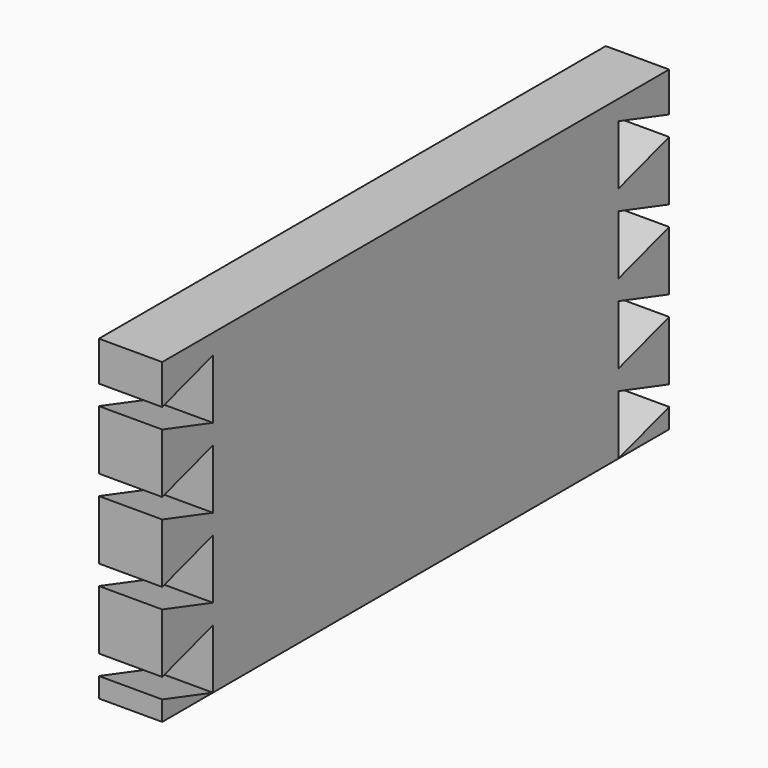
from build123d import *

# Parameters (mm, degrees)
PAD003_DEPTH     = 20
ARRAY002_Z_COUNT = 4
ARRAY002_Z_PITCH = 25
PAD002_DEPTH     = 20
ARRAY003_Z_COUNT = 4
ARRAY003_Z_PITCH = 25
BOX009_W         = 20
BOX009_H         = 200
BOX009_DEPTH     = 100


with BuildPart() as array002:
    # Sketch002 → Pad003 (new body)
    with BuildSketch(Plane(origin=(0, 200, 10), x_dir=(0, 1, 0), z_dir=(1, 0, 0))):
        Polygon((0, 18.75), (0, 0), (-20, 6.25), (-20, 12.5), align=None)
    extrude(amount=PAD003_DEPTH)

    # Array002 Z: Array002 ×4


with BuildPart() as array002_1:
    add(array002.part)
    with Locations(*[(0, 0, i * ARRAY002_Z_PITCH) for i in range(1, ARRAY002_Z_COUNT)]):
        add(array002.part)


with BuildPart() as array002_2:
    # Array002 placement: moved
    add(array002_1.part.moved(Location((0, -180, 0))))


with BuildPart() as fusion001:
    # Sketch003 → Pad002 (new body)
    with BuildSketch(Plane(origin=(0, 0, 10), x_dir=(0, 1, 0), z_dir=(1, 0, 0))):
        Polygon((0, 18.75), (0, 0), (20, 6.25), (20, 12.5), align=None)
    extrude(amount=PAD002_DEPTH)

    # Array003 Z: Fusion001 ×4


with BuildPart() as fusion001_1:
    add(fusion001.part)
    with Locations(*[(0, 0, i * ARRAY003_Z_PITCH) for i in range(1, ARRAY003_Z_COUNT)]):
        add(fusion001.part)


with BuildPart() as fusion001_2:
    # Array003 placement: moved
    add(fusion001_1.part.moved(Location((0, 180, 0))))

    # Fusion001: union Array002
    add(array002_2.part)


with BuildPart() as right_cut:
    # Box009 → Box009 (new body)
    with BuildSketch(Plane.XY.offset(10)):
        with Locations((10, 100)):
            Rectangle(BOX009_W, BOX009_H)
    extrude(amount=BOX009_DEPTH)

    # Cut001: cut Fusion001
    add(fusion001_2.part, mode=Mode.SUBTRACT)


with BuildPart() as right_cut_1:
    # Cut001 placement: moved
    add(right_cut.part.moved(Location((280, 0, 0))))


solid = right_cut_1.part
